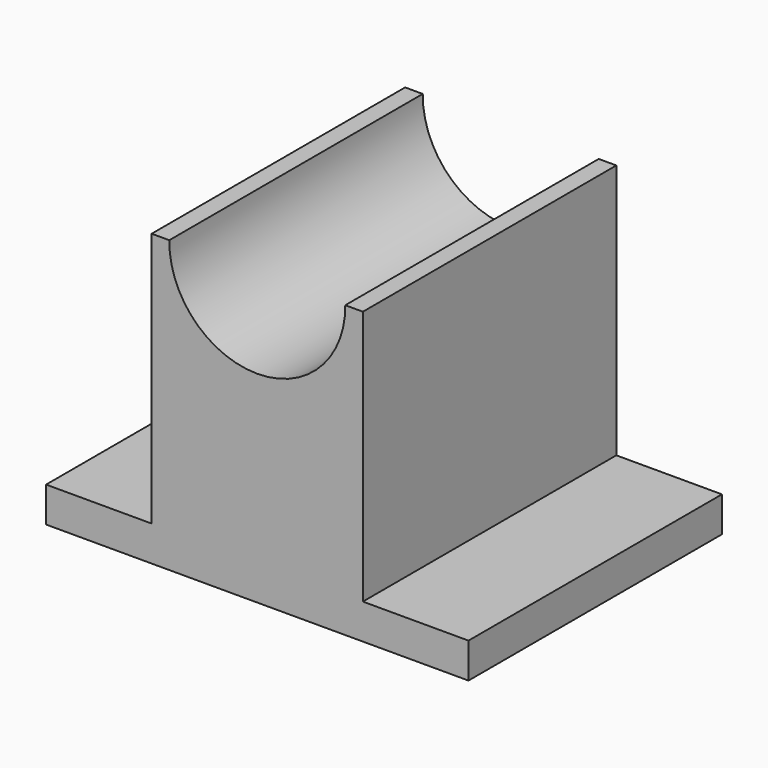
from build123d import *

# Parameters (mm, degrees)
F1_DEPTH = 114.3


with BuildPart() as f1:
    # F0 (on Front) → F1 (new body)
    with BuildSketch(Plane.XZ):
        with BuildLine():
            Line((-76.2, 0), (0, 0))
            Line((0, 0), (76.2, 0))
            Line((76.2, 0), (76.2, 12.7))
            Line((76.2, 12.7), (38.1, 12.7))
            Line((38.1, 12.7), (38.1, 104.775))
            Line((38.1, 104.775), (31.748061, 104.775))
            ThreePointArc((31.748061, 104.775), (0, 72.674149), (-31.748061, 104.775))
            Line((-31.748061, 104.775), (-38.1, 104.775))
            Line((-38.1, 104.775), (-38.1, 12.7))
            Line((-38.1, 12.7), (-76.2, 12.7))
            Line((-76.2, 12.7), (-76.2, 0))
        make_face()
    extrude(amount=F1_DEPTH)


solid = f1.part
